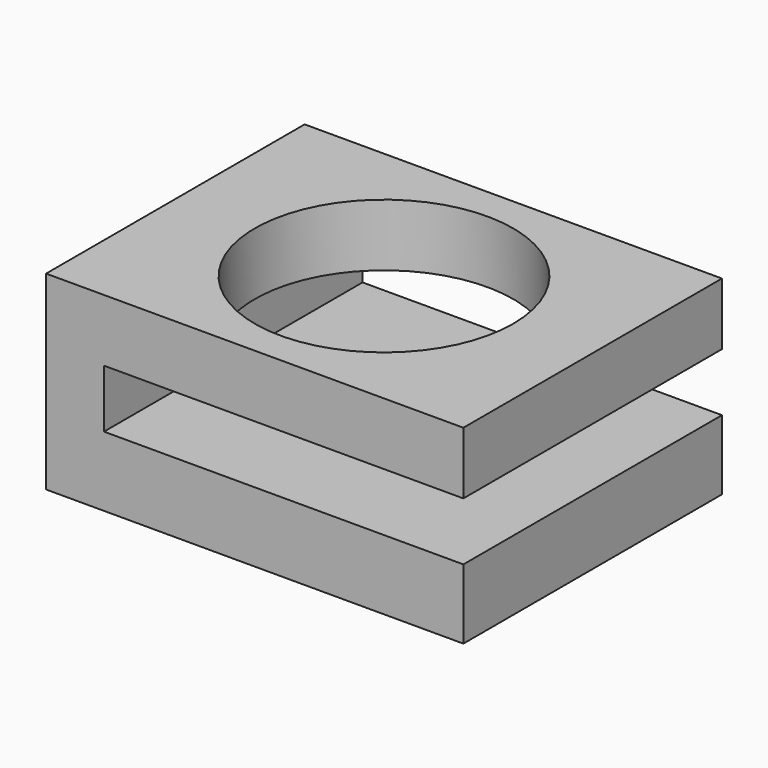
from build123d import *

# Parameters (mm, degrees)
F0_W     = 111.522756
F0_H     = 86.371966
F1_DEPTH = 50.8
F2_W     = 80.143302
F2_H     = 39.228082
F3_DEPTH = 36.405057
F4_W     = 96.042376
F4_H     = 15.521109
F5_DEPTH = 86.372966
F6_R     = 34.528896
F7_DEPTH = 25.4


with BuildPart() as f1:
    # F0 (on Top) → F1 (new body)
    with BuildSketch(Plane.XY):
        Rectangle(F0_W, F0_H)
    extrude(amount=-F1_DEPTH)

    # F2 (on face) → F3 (join)
    with BuildSketch(Plane.XZ.offset(43.185983)):
        with Locations((0, -31.185959)):
            Rectangle(F2_W, F2_H)
    extrude(amount=-F3_DEPTH)

    # F4 (on face) → F5 (cut, through all)
    with BuildSketch(Plane.XZ.offset(43.185983)):
        with Locations((7.74019, -24.390307)):
            Rectangle(F4_W, F4_H)
    extrude(amount=-F5_DEPTH, mode=Mode.SUBTRACT)

    # F6 (on face) → F7 (cut)
    with BuildSketch(Plane.XY):
        Circle(F6_R)
    extrude(amount=-F7_DEPTH, mode=Mode.SUBTRACT)


solid = f1.part
